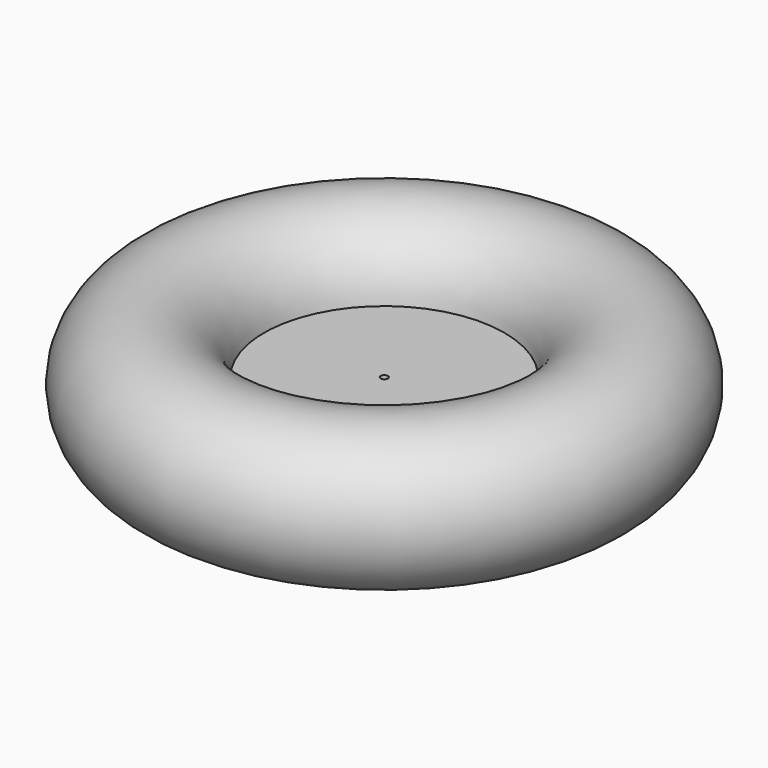
from build123d import *

# Parameters (mm, degrees)
SKETCH002_R = 1.5
HOLE_DEPTH  = 25
HOLE_TIPS_R = 1.5


with BuildPart() as part:
    # Sketch → Revolution (revolve)
    with BuildSketch(Plane.XZ):
        with BuildLine():
            Line((0, 0), (50, 0))
            ThreePointArc((50, 0), (109.895652, 2.5), (50, 5))
            Line((50, 5), (0, 5))
            Line((0, 5), (0, 0))
        make_face()
    revolve(axis=Axis((0, 0, 0), (0, 0, 1)))

    # Sketch002 (on Face3 of Revolution) → Hole (cut)
    with BuildSketch(Plane(origin=(0, 0, 5), x_dir=(-1, 0, 0), z_dir=(0, 0, 1))):
        Circle(SKETCH002_R)
    extrude(amount=-HOLE_DEPTH, mode=Mode.SUBTRACT)

    # Hole tips → Hole tip 1 section 0
    with BuildSketch(Plane(origin=(0, 0, -20), x_dir=(-1, 0, 0), z_dir=(0, 0, 1)), mode=Mode.PRIVATE) as hole_tip_1_s0:
        Circle(HOLE_TIPS_R)
    loft([hole_tip_1_s0.sketch, Vertex(0, 0, -20.901291)], mode=Mode.SUBTRACT)


solid = part.part
